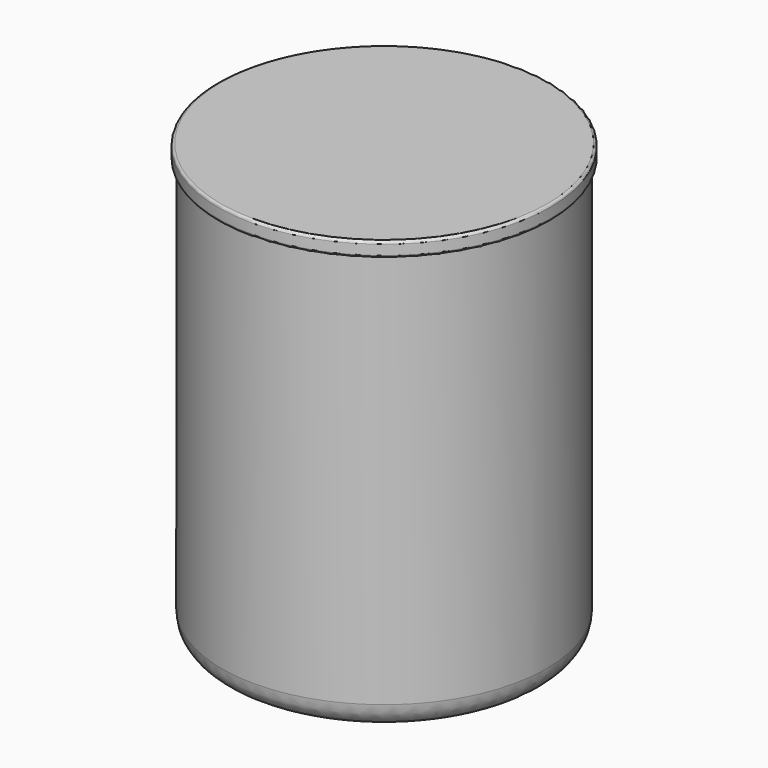
from build123d import *

# Parameters (mm, degrees)
F0_R     = 65
F1_DEPTH = 174
F2_SIZE2 = 60
F2_SIZE  = 7
F3_R     = 1
F4_R     = 10
F5_R     = 66.5
F5_R_2   = 65
F6_DEPTH = 6
F7_R     = 1


with BuildPart() as f1:
    # F0 (on Top) → F1 (new body)
    with BuildSketch(Plane.XY):
        Circle(F0_R)
    extrude(amount=-F1_DEPTH)

    # F2
    f2_edges = [f1.edges().sort_by_distance(p)[0] for p in [
        (-65, 0, -174),
    ]]
    f2_side = f1.faces().sort_by_distance((-65, 0, -87))[0]
    chamfer(f2_edges, length=F2_SIZE, length2=F2_SIZE2, reference=f2_side)

    # F3
    f3_edges = [f1.edges().sort_by_distance(p)[0] for p in [
        (-5, 0, -174),
    ]]
    fillet(f3_edges, radius=F3_R)

    # F4
    f4_edges = [f1.edges().sort_by_distance(p)[0] for p in [
        (-65, 0, -167),
    ]]
    fillet(f4_edges, radius=F4_R)

    # F5 (on face) → F6 (join)
    with BuildSketch(Plane.XY):
        Circle(F5_R)
        Circle(F5_R_2, mode=Mode.SUBTRACT)
        Circle(F5_R_2)
    extrude(amount=F6_DEPTH)

    # F7
    f7_edges = [f1.edges().sort_by_distance(p)[0] for p in [
        (-66.5, 0, 6),
        (-66.5, 0, 0),
    ]]
    fillet(f7_edges, radius=F7_R)


solid = f1.part
